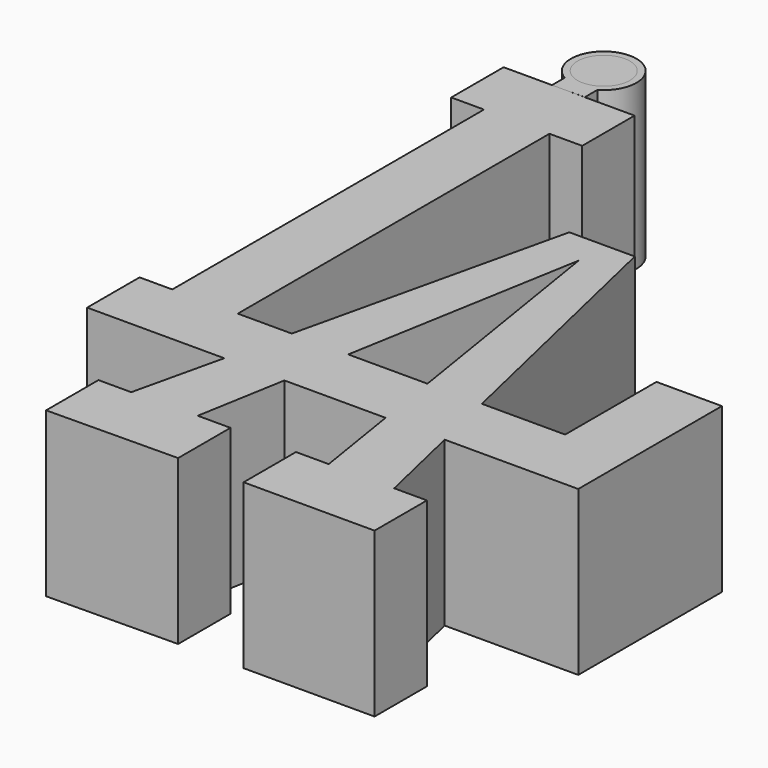
from build123d import *

# Parameters (mm, degrees)
F2_DEPTH = 25
F3_DEPTH = 25
F4_R     = 4.003487198
F5_DEPTH = 25


with BuildPart() as f2:
    # F0 (on Top) → F2 (new body)
    with BuildSketch(Plane.XY):
        Polygon((-27.7478177836, 69.0990370269), (-47.7478177836, 69.0990370269), (-47.7478177836, 59.0990370269), (-42.7478177836, 59.0990370269), (-42.7478177836, -0.3993871187), (-47.7478177836, -0.3993871187), (-47.7478177836, -10.3993871187), (-26.8132260698, -10.3993871187), (-24.5015927774, -0.3993871187), (-32.7478177836, -0.3993871187), (-32.7478177836, 59.0990370269), (-27.7478177836, 59.0990370269), align=None)
        Polygon((-15, 40.7039868832), (-24.5015927774, -0.3993871187), (-15.8771997512, -0.3993871187), (-9.5630353317, 35.7039868832), (-3.7775814806, -0.3993871187), (4.5327820422, -0.3993871187), (-5, 40.7039868832), align=None)
        Polygon((-15.8771997512, -0.3993871187), (-24.5015927774, -0.3993871187), (-26.8132260698, -10.3993871187), (-17.6261123097, -10.3993871187), align=None)
        Polygon((-3.7775814806, -0.3993871187), (-15.8771997512, -0.3993871187), (-17.6261123097, -10.3993871187), (-2.1751124563, -10.3993871187), align=None)
        Polygon((-17.6261123097, -10.3993871187), (-26.8132260698, -10.3993871187), (-29.9989221025, -24.180535033), (-34.9989221025, -24.180535033), (-34.9989221025, -34.180535033), (-15, -33.9728941465), (-15, -23.9728941465), (-20, -23.9728941465), align=None)
        Polygon((4.5327820422, -0.3993871187), (-3.7775814806, -0.3993871187), (-2.1751124563, -10.3993871187), (6.8520033407, -10.3993871187), align=None)
        Polygon((17.2521822164, -0.3993871187), (4.5327820422, -0.3993871187), (6.8520033407, -10.3993871187), (27.2521822164, -10.3993871187), (27.2521822164, 17.0264199791), (17.2521822164, 17.0264199791), align=None)
        Polygon((6.8520033407, -10.3993871187), (-2.1751124563, -10.3993871187), (0, -23.9728941465), (-5, -23.9728941465), (-5, -33.9728941465), (15, -33.9728941465), (15, -23.9728941465), (10, -23.9728941465), align=None)
    extrude(amount=F2_DEPTH)


with BuildPart() as f2b:
    # F1 (on Top) → F2, piece 2 (new body)
    with BuildSketch(Plane.XY):
        with BuildLine():
            Line((-40.3533168137, 71.514248848), (-40.3533168137, 69.090731442))
            Line((-40.3533168137, 69.090731442), (-35.3533168137, 69.115050137))
            Line((-35.3533168137, 69.115050137), (-35.3533168137, 71.514248848))
            ThreePointArc((-35.3533168137, 71.514248848), (-37.8533168137, 80.8443758669), (-40.3533168137, 71.514248848))
        make_face()
    extrude(amount=F2_DEPTH)


with BuildPart() as f3:
    # F1 (on Top) → F3 (new body)
    with BuildSketch(Plane.XY):
        with BuildLine():
            Line((-40.3533168137, 71.514248848), (-40.3533168137, 69.090731442))
            Line((-40.3533168137, 69.090731442), (-35.3533168137, 69.115050137))
            Line((-35.3533168137, 69.115050137), (-35.3533168137, 71.514248848))
            ThreePointArc((-35.3533168137, 71.514248848), (-37.8533168137, 80.8443758669), (-40.3533168137, 71.514248848))
        make_face()
    extrude(amount=F3_DEPTH)


with BuildPart() as f5:
    # F4 (on Top) → F5 (new body)
    with BuildSketch(Plane.XY):
        with Locations((-37.8565936583, 75.8431830385)):
            Circle(F4_R)
    extrude(amount=F5_DEPTH)


solid = Compound([f2.part, f2b.part, f3.part, f5.part])
